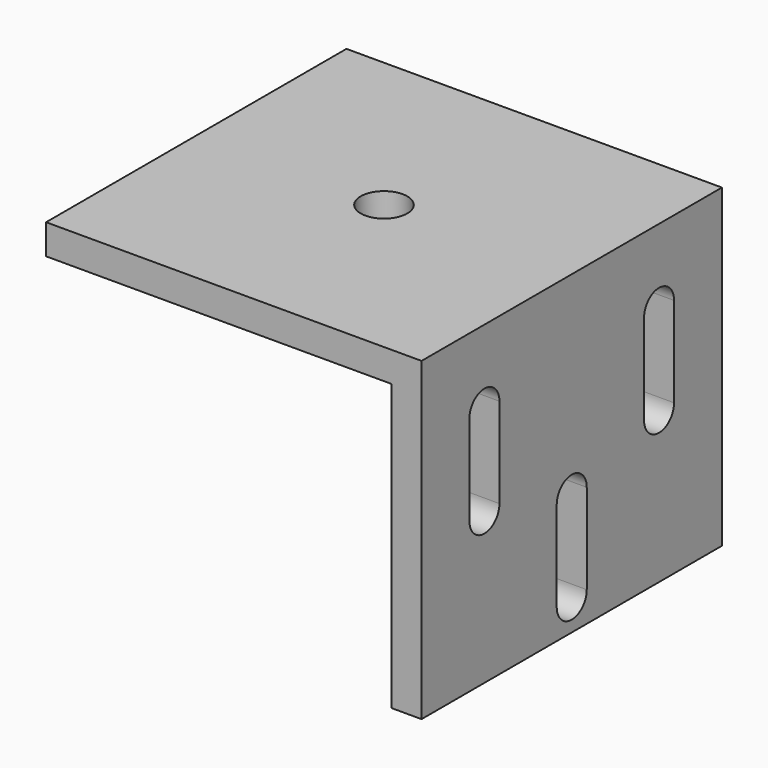
from build123d import *

# Parameters (mm, degrees)
F1_DEPTH = 25
F3_D     = 6.2
F5_DEPTH = 4.001


with BuildPart() as f1:
    # F0 (on Front) → F1 (new body, symmetric)
    with BuildSketch(Plane.XZ):
        Polygon((0, -42), (0, 0), (-50, 0), (-50, -4), (-4, -4), (-4, -42), align=None)
    extrude(amount=F1_DEPTH, both=True)

    # F3 (through all)
    with Locations(Plane.XY):
        with Locations((-25, 0)):
            Hole(F3_D / 2)

    # F4 (on face) → F5 (cut, through all)
    with BuildSketch(Plane(origin=(-4, 0, 0), x_dir=(0, -1, 0), z_dir=(-1, 0, 0))):
        with BuildLine():
            ThreePointArc((-17.034974, -22), (-14.534974, -24.5), (-12.034974, -22))
            Line((-12.034974, -22), (-12.034974, -10))
            ThreePointArc((-12.034974, -10), (-14.534974, -7.5), (-17.034974, -10))
            Line((-17.034974, -10), (-17.034974, -22))
        make_face()
        with BuildLine():
            ThreePointArc((-2.5, -38), (0, -40.5), (2.5, -38))
            Line((2.5, -38), (2.5, -26))
            ThreePointArc((2.5, -26), (0, -23.5), (-2.5, -26))
            Line((-2.5, -26), (-2.5, -38))
        make_face()
        with BuildLine():
            ThreePointArc((12.034974, -22), (14.534974, -24.5), (17.034974, -22))
            Line((17.034974, -22), (17.034974, -10))
            ThreePointArc((17.034974, -10), (14.534974, -7.5), (12.034974, -10))
            Line((12.034974, -10), (12.034974, -22))
        make_face()
    extrude(amount=-F5_DEPTH, mode=Mode.SUBTRACT)


solid = f1.part
